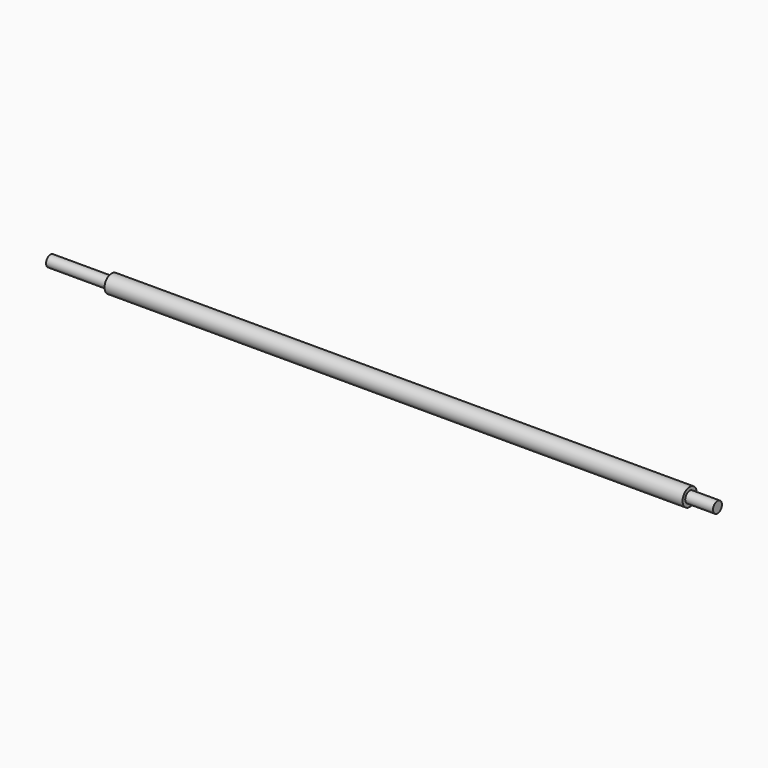
from build123d import *


with BuildPart() as part:
    # Sketch → Revolution (revolve)
    with BuildSketch(Plane.XY):
        Polygon((0, 0), (0, 5), (55, 5), (55, 8), (575, 8), (575, 5), (600, 5), (600, 0), align=None)
    revolve(axis=Axis((0, 0, 0), (1, 0, 0)))


solid = part.part
